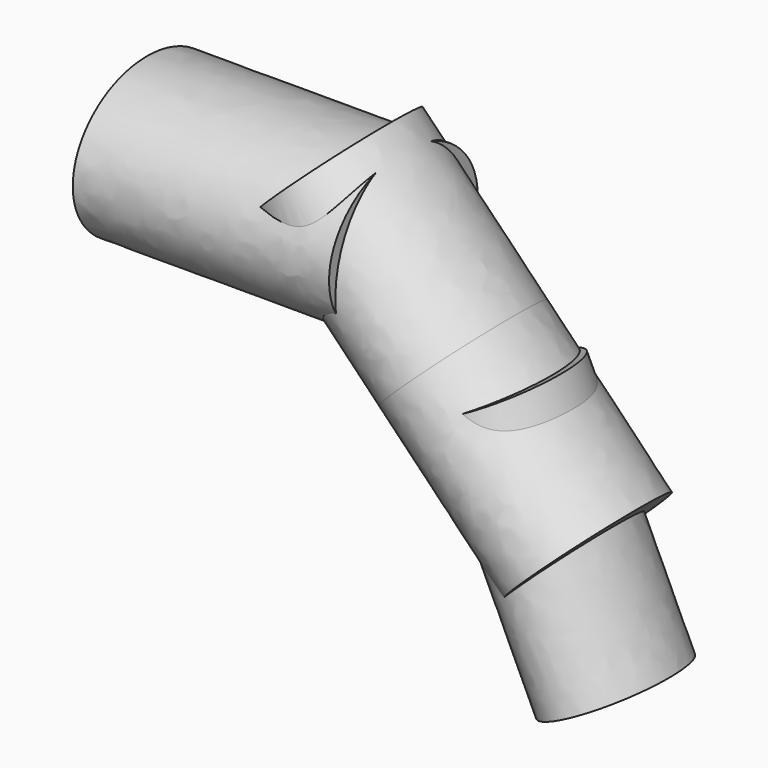
from build123d import *

# Parameters (mm, degrees)
F6_DEPTH = 25.4
F7_DEPTH = 17.78
F8_DEPTH = 12.7


with BuildPart() as f6:
    # F0 (on Right) → F6 (new body)
    with BuildSketch(Plane.YZ):
        with BuildLine():
            add(Edge.make_bspline(
                [(9.2075, 0), (9.2075, 13.198227), (-4.60375, 6.599114), (-18.415, 0), (-4.60375, -6.599114), (9.2075, -13.198227), (9.2075, 0)],
                knots=[0, 0, 0, 2.094395, 2.094395, 4.18879, 4.18879, 6.283185, 6.283185, 6.283185], degree=2, weights=[1, 0.5, 1, 0.5, 1, 0.5, 1]))
        make_face()
    extrude(amount=F6_DEPTH)

    # F3 (on face) → F7 (join, symmetric)
    with BuildSketch(Plane(origin=(19.152, 0, -19.832477), x_dir=(0.71934, 0, 0.694658), z_dir=(0.694658, 0, -0.71934))):
        with BuildLine():
            add(Edge.make_bspline(
                [(16.937431, -8.4328), (28.771841, -8.4328), (22.854636, 4.2164), (16.937431, 16.8656), (11.020226, 4.2164), (5.103021, -8.4328), (16.937431, -8.4328)],
                knots=[0, 0, 0, 2.094395, 2.094395, 4.18879, 4.18879, 6.283185, 6.283185, 6.283185], degree=2, weights=[1, 0.5, 1, 0.5, 1, 0.5, 1]))
        make_face()
    extrude(amount=F7_DEPTH, both=True)

    # F5 (on face) → F8 (join, symmetric)
    with BuildSketch(Plane(origin=(15.298173, 0, -32.807039), x_dir=(0.906308, 0, 0.422618), z_dir=(0.422618, 0, -0.906308))):
        with BuildLine():
            add(Edge.make_bspline(
                [(28.443258, -7.366), (38.473911, -7.366), (33.458585, 3.683), (28.443258, 14.732), (23.427932, 3.683), (18.412606, -7.366), (28.443258, -7.366)],
                knots=[0, 0, 0, 2.094395, 2.094395, 4.18879, 4.18879, 6.283185, 6.283185, 6.283185], degree=2, weights=[1, 0.5, 1, 0.5, 1, 0.5, 1]))
        make_face()
    extrude(amount=F8_DEPTH, both=True)


solid = f6.part
